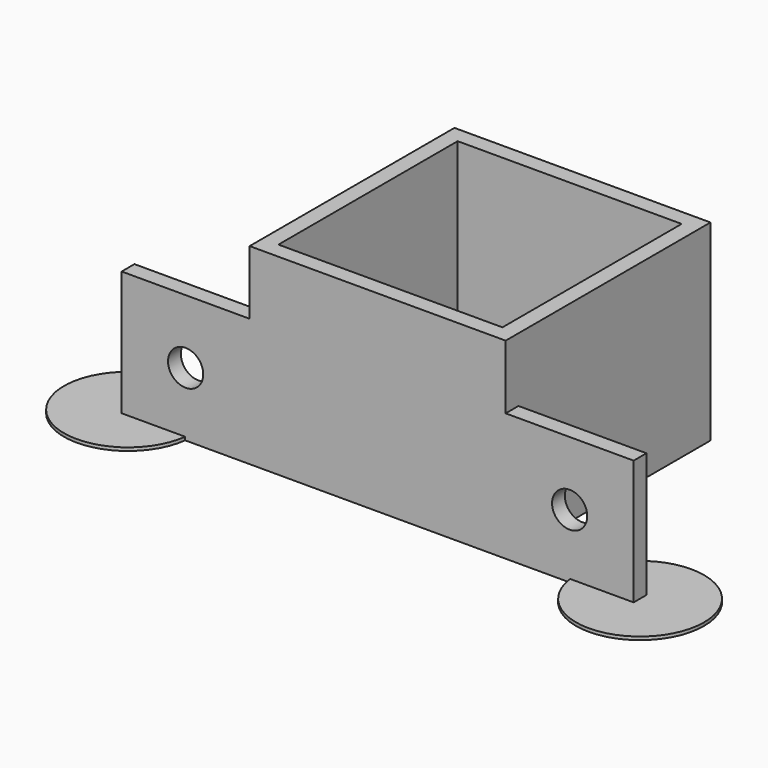
from build123d import *

# Parameters (mm, degrees)
F0_W      = 40
F0_H      = 40
F1_DEPTH  = 30
F2_T      = -2.5
F4_D      = 2.5
F5_D      = 18.5
F6_W      = 20
F6_H      = 20
F7_DEPTH  = 2.5
F9_D      = 5.5
F11_DEPTH = 0.5


with BuildPart() as f1:
    # F0 (on Top) → F1 (new body)
    with BuildSketch(Plane.XY):
        Rectangle(F0_W, F0_H)
    extrude(amount=F1_DEPTH)

    # F2
    f2_openings = [f1.faces().sort_by_distance(p)[0] for p in [
        (0, 0, 30),
    ]]
    offset(amount=F2_T, openings=f2_openings)

    # F4 (through all)
    with Locations(Plane(origin=(0, 0, 0), x_dir=(1, 0, 0), z_dir=(0, 0, -1))):
        with Locations((-11.4215728753, 11.4215728753), (11.4215728753, 11.4215728753), (-11.4215728753, -11.4215728753), (11.4215728753, -11.4215728753)):
            Hole(F4_D / 2)

    # F5 (through all)
    with Locations(Plane(origin=(0, 0, 0), x_dir=(1, 0, 0), z_dir=(0, 0, -1))):
        with Locations((0, 0)):
            Hole(F5_D / 2)

    # F6 (on face) → F7 (join)
    with BuildSketch(Plane.XZ.offset(20)):
        with Locations((-30, 10)):
            Rectangle(F6_W, F6_H)
        with Locations((30, 10)):
            Rectangle(F6_W, F6_H)
    extrude(amount=-F7_DEPTH)

    # F9 (through all)
    with Locations(Plane.XZ.offset(20)):
        with Locations((-30, 10), (30, 10)):
            Hole(F9_D / 2)

    # F10 (on face) → F11 (join)
    with BuildSketch(Plane(origin=(0, 0, 0), x_dir=(1, 0, 0), z_dir=(0, 0, -1))):
        with BuildLine():
            ThreePointArc((50, 18.75), (40.6262291254, 28.7303725924), (30.0784325835, 20))
            Line((30.0784325835, 20), (40, 20))
            Line((40, 20), (40, 17.5))
            Line((40, 17.5), (30.0784325835, 17.5))
            ThreePointArc((30.0784325835, 17.5), (40.6262291254, 8.7696274076), (50, 18.75))
        make_face()
        with BuildLine():
            Line((-40, 20), (-30.0784325835, 20))
            ThreePointArc((-30.0784325835, 20), (-50, 18.75), (-30.0784325835, 17.5))
            Line((-30.0784325835, 17.5), (-40, 17.5))
            Line((-40, 17.5), (-40, 20))
        make_face()
    extrude(amount=-F11_DEPTH)


solid = f1.part
